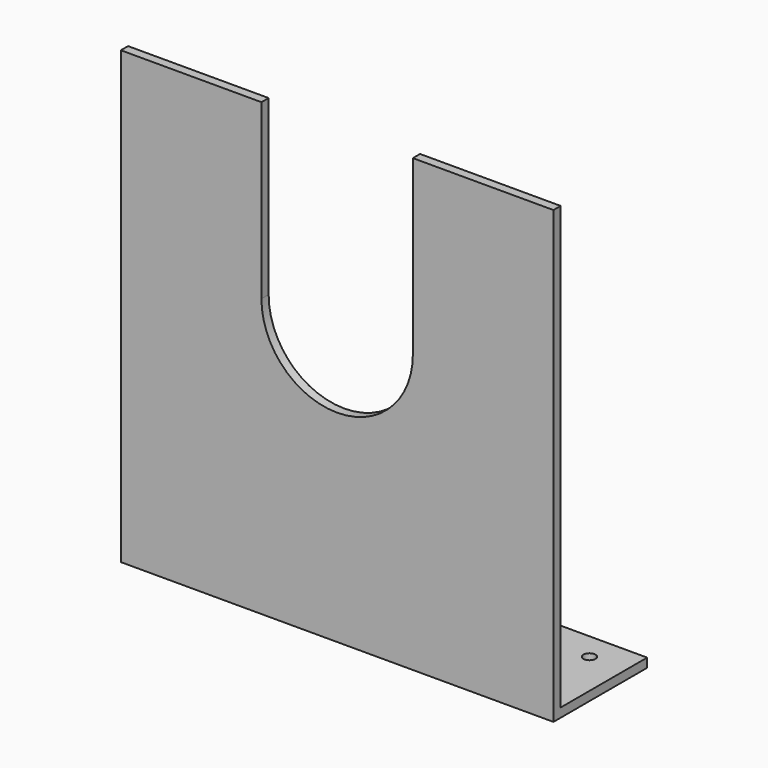
from build123d import *

# Parameters (mm, degrees)
F1_DEPTH = 120
F3_DEPTH = 5
F5_D     = 6.6
F5_DEPTH = 14.4
F5_TIP   = 1.9828400428


with BuildPart() as f1:
    # F0 (on Right) → F1 (new body, symmetric)
    with BuildSketch(Plane.YZ):
        Polygon((5, 250), (0, 250), (0, 0), (65, 0), (65, 5), (5, 5), align=None)
    extrude(amount=F1_DEPTH, both=True)

    # F2 (on face) → F3 (cut, through all)
    with BuildSketch(Plane(origin=(0, 5, 0), x_dir=(-1, 0, 0), z_dir=(0, 1, 0))):
        with BuildLine():
            ThreePointArc((-42, 154), (0, 112), (42, 154))
            Line((42, 154), (42, 250))
            Line((42, 250), (-42, 250))
            Line((-42, 250), (-42, 154))
        make_face()
    extrude(amount=-F3_DEPTH, mode=Mode.SUBTRACT)

    # F5
    with Locations(Plane.XY.offset(5)):
        with Locations((-100, 20), (-100, 50), (100, 20), (100, 50)):
            Hole(F5_D / 2, depth=F5_DEPTH)
            with Locations((0, 0, -(F5_DEPTH + F5_TIP / 2))):  # 118° drill point
                Cone(0, F5_D / 2, F5_TIP, mode=Mode.SUBTRACT)


solid = f1.part
